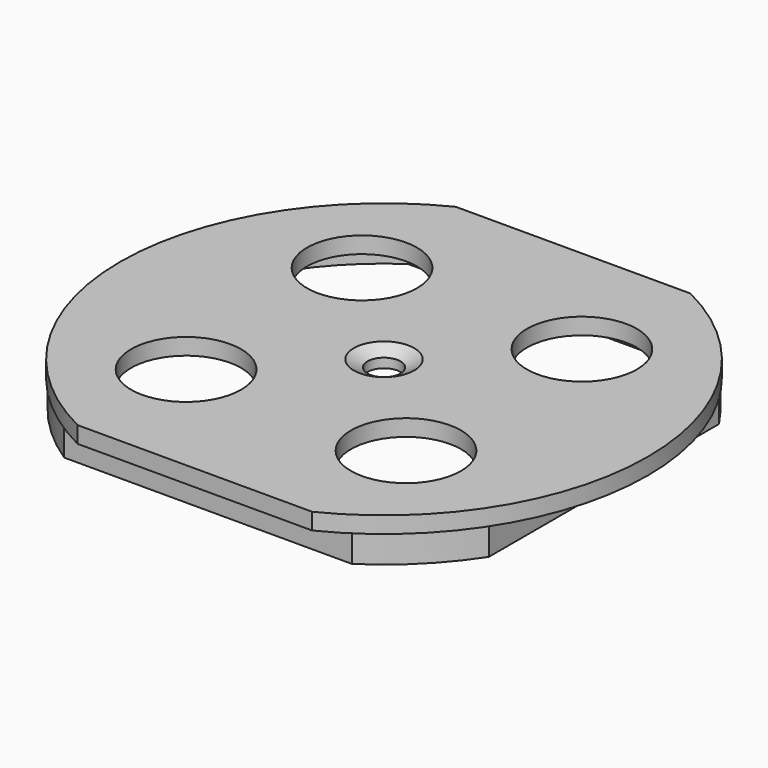
from build123d import *

# Parameters (mm, degrees)
SKETCH_R        = 5
SKETCH_R_2      = 1.5
PAD_DEPTH       = 1.5
CHAMFER_SIZE2   = 1.25
CHAMFER_SIZE    = 0.65
POCKET_DEPTH    = 1
PAD001_DEPTH    = 2.5
POCKET001_DEPTH = 2.5


with BuildPart() as part:
    # Sketch → Pad (new body)
    with BuildSketch(Plane.XY):
        with BuildLine():
            ThreePointArc((10.665365, -21.5), (24, 0), (10.665365, 21.5))
            Line((-10.665365, 21.5), (10.665365, 21.5))
            ThreePointArc((-10.665365, 21.5), (-24, 0), (-10.665365, -21.5))
            Line((-10.665365, -21.5), (10.665365, -21.5))
        make_face()
        with Locations((10, -10)):
            Circle(SKETCH_R, mode=Mode.SUBTRACT)
        with Locations((-10, -10)):
            Circle(SKETCH_R, mode=Mode.SUBTRACT)
        with Locations((-10, 10)):
            Circle(SKETCH_R, mode=Mode.SUBTRACT)
        with Locations((10, 10)):
            Circle(SKETCH_R, mode=Mode.SUBTRACT)
        Circle(SKETCH_R_2, mode=Mode.SUBTRACT)
    extrude(amount=PAD_DEPTH)

    # Chamfer
    chamfer_edges = [part.edges().sort_by_distance(p)[0] for p in [
        (-1.5, 0, 1.5),
    ]]
    chamfer_side = part.faces().sort_by_distance((-1.5, 0, 0.75))[0]
    chamfer(chamfer_edges, length=CHAMFER_SIZE, length2=CHAMFER_SIZE2, reference=chamfer_side)

    # Sketch001 (on Face3 of Chamfer) → Pocket (cut)
    with BuildSketch(Plane(origin=(0, 0, 0), x_dir=(1, 0, 0), z_dir=(0, 0, -1))):
        with BuildLine():
            ThreePointArc((4, 14.5), (0, 18.5), (-4, 14.5))
            Line((-4, 14.5), (-4, 12))
            ThreePointArc((-4, 12), (0, 8), (4, 12))
            Line((4, 12), (4, 14.5))
        make_face()
        with BuildLine():
            ThreePointArc((-4, -14.5), (0, -18.5), (4, -14.5))
            Line((4, -12), (4, -14.5))
            ThreePointArc((4, -12), (0, -8), (-4, -12))
            Line((-4, -14.5), (-4, -12))
        make_face()
        with BuildLine():
            ThreePointArc((9, 4), (5, 0), (9, -4))
            Line((9, -4), (11, -4))
            ThreePointArc((11, -4), (15, 0), (11, 4))
            Line((11, 4), (9, 4))
        make_face()
        with BuildLine():
            ThreePointArc((-9, -4), (-5, 0), (-9, 4))
            Line((-11, 4), (-9, 4))
            ThreePointArc((-11, 4), (-15, 0), (-11, -4))
            Line((-9, -4), (-11, -4))
        make_face()
    extrude(amount=-POCKET_DEPTH, mode=Mode.SUBTRACT)

    # Sketch002 (on Face3 of Pocket) → Pad001 (join)
    with BuildSketch(Plane(origin=(0, 0, 0), x_dir=(1, 0, 0), z_dir=(0, 0, -1))):
        with BuildLine():
            Line((-20, 13.084724), (-20, -13.084724))
            ThreePointArc((-20, -13.084724), (-16.899852, -16.899852), (-13.084724, -20))
            Line((-13.084724, -20), (13.084724, -20))
            ThreePointArc((13.084724, -20), (16.899852, -16.899852), (20, -13.084724))
            Line((20, -13.084724), (20, 13.084724))
            ThreePointArc((20, 13.084724), (16.899852, 16.899852), (13.084724, 20))
            Line((13.084724, 20), (-13.084724, 20))
            ThreePointArc((-13.084724, 20), (-16.899852, 16.899852), (-20, 13.084724))
        make_face()
    extrude(amount=PAD001_DEPTH)

    # Sketch003 (on Face26 of Pad001) → Pocket001 (cut)
    with BuildSketch(Plane(origin=(0, 0, -2.5), x_dir=(1, 0, 0), z_dir=(0, 0, -1))):
        with BuildLine():
            Line((-18.5, 12.629727), (-18.5, -12.629727))
            ThreePointArc((-18.5, -12.629727), (-15.839192, -15.839192), (-12.629727, -18.5))
            Line((-12.629727, -18.5), (12.629727, -18.5))
            ThreePointArc((12.629727, -18.5), (15.839192, -15.839192), (18.5, -12.629727))
            Line((18.5, -12.629727), (18.5, 12.629727))
            ThreePointArc((18.5, 12.629727), (15.839192, 15.839192), (12.629727, 18.5))
            Line((12.629727, 18.5), (-12.629727, 18.5))
            ThreePointArc((-12.629727, 18.5), (-15.839192, 15.839192), (-18.5, 12.629727))
        make_face()
    extrude(amount=-POCKET001_DEPTH, mode=Mode.SUBTRACT)


solid = part.part
